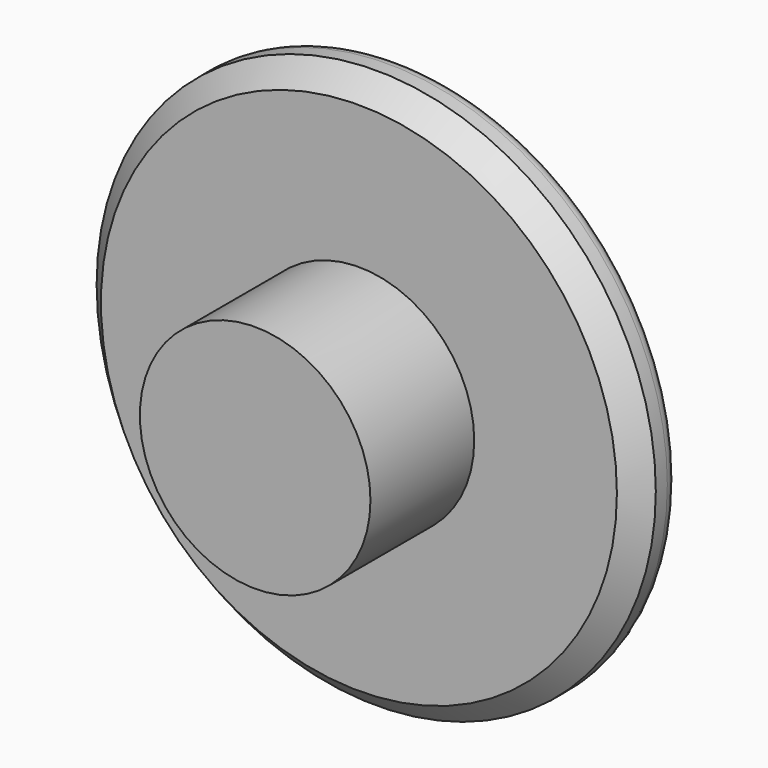
from build123d import *

# Parameters (mm, degrees)
F0_R     = 4
F1_DEPTH = 6.25
F0_R_2   = 9.7
F2_DEPTH = 1.75
F3_SIZE  = 0.75
F4_R     = 0.5


with BuildPart() as f1:
    # F0 (on Front) → F1 (new body)
    with BuildSketch(Plane.XZ):
        Circle(F0_R)
    extrude(amount=F1_DEPTH)

    # F0 (on Front) → F2 (join)
    with BuildSketch(Plane.XZ):
        Circle(F0_R_2)
        Circle(F0_R, mode=Mode.SUBTRACT)
    extrude(amount=F2_DEPTH)

    # F3
    f3_edges = [f1.edges().sort_by_distance(p)[0] for p in [
        (-9.7, -1.75, 0),
    ]]
    chamfer(f3_edges, length=F3_SIZE)

    # F4
    f4_edges = [f1.edges().sort_by_distance(p)[0] for p in [
        (-9.7, 0, 0),
    ]]
    fillet(f4_edges, radius=F4_R)


solid = f1.part
